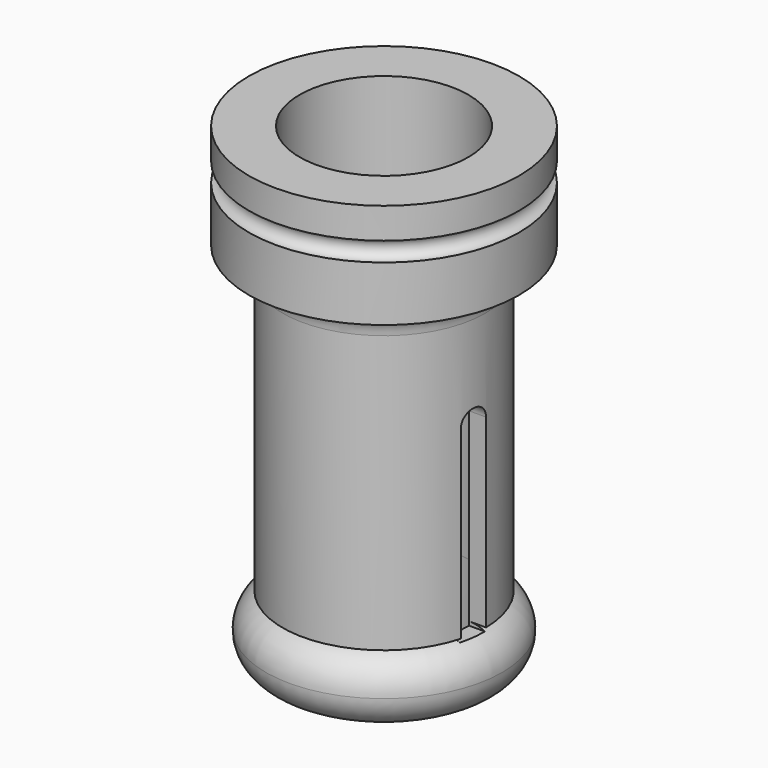
from build123d import *

# Parameters (mm, degrees)
F0_W     = 1.5875
F0_H     = 28.575
F2_R     = 2.54
F3_W     = 2.54
F3_H     = 17.78
F4_DEPTH = 12.7


with BuildPart() as f1:
    # F0 (on Front) → F1 (revolve)
    with BuildSketch(Plane.XZ):
        with Locations((0.79375, 20.6375)):
            Rectangle(F0_W, F0_H)
        with BuildLine():
            Line((0, 44.7964034975), (0, 34.925))
            Line((0, 34.925), (1.5875, 34.925))
            Line((1.5875, 34.925), (4.7625, 34.925))
            Line((4.7625, 34.925), (4.7625, 40.1001311839))
            ThreePointArc((4.7625, 40.1001311839), (3.8603166461, 41.0023145378), (4.7625, 41.9044978917))
            Line((4.7625, 41.9044978917), (4.7625, 44.7964034975))
            Line((4.7625, 44.7964034975), (0, 44.7964034975))
        make_face()
    revolve(axis=Axis((-7.9375, 0, 26.2395332485), (0, 0, 1)))

    # F2
    f2_edges = [f1.edges().sort_by_distance(p)[0] for p in [
        (-17.4625, 0, 34.925),
    ]]
    fillet(f2_edges, radius=F2_R)


with BuildPart() as f1b:
    # F0 (on Front) → F1, piece 2 (revolve)
    with BuildSketch(Plane.XZ):
        with BuildLine():
            Line((0, 6.35), (0, 0))
            ThreePointArc((0, 0), (2.2450640303, 0.9299359697), (3.175, 3.175))
            ThreePointArc((3.175, 3.175), (2.2450640303, 5.4200640303), (0, 6.35))
        make_face()
    revolve(axis=Axis((-7.9375, 0, 26.2395332485), (0, 0, 1)))


with BuildPart() as f4_tool:
    # F3 (on Right) → F4 (new body, symmetric)
    with BuildSketch(Plane.YZ):
        with Locations((-1.1903626225, 14.8721342405)):
            Rectangle(F3_W, F3_H)
        with BuildLine():
            ThreePointArc((0.0796373775, 23.7621342405), (-1.1903626225, 25.0321342405), (-2.4603626225, 23.7621342405))
            Line((-2.4603626225, 23.7621342405), (0.0796373775, 23.7621342405))
        make_face()
    extrude(amount=F4_DEPTH, both=True)


with BuildPart() as f1_1:
    add(f1.part)

    # F4: cut by f4_tool
    add(f4_tool.part, mode=Mode.SUBTRACT)


with BuildPart() as f1b_1:
    add(f1b.part)

    # F4: cut by f4_tool
    add(f4_tool.part, mode=Mode.SUBTRACT)


solid = Compound([f1_1.part, f1b_1.part])
